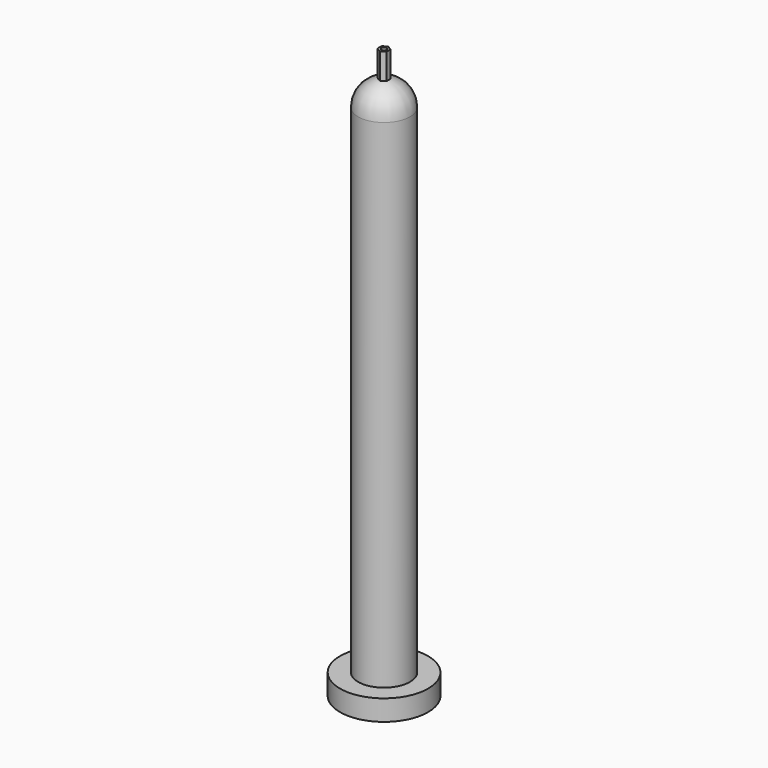
from build123d import *

# Parameters (mm, degrees)
F0_R      = 8.5
F1_DEPTH  = 4
F2_R      = 5
F3_DEPTH  = 100
F9_DEPTH  = 5
F10_R     = 0.5
F11_DEPTH = 117.5


with BuildPart() as f1:
    # F0 (on Top) → F1 (new body)
    with BuildSketch(Plane.XY):
        Circle(F0_R)
    extrude(amount=F1_DEPTH)

    # F2 (on Top) → F3 (join)
    with BuildSketch(Plane.XY):
        Circle(F2_R)
    extrude(amount=F3_DEPTH)

    # F4 (on Right) → F6 (revolve)
    with BuildSketch(Plane.YZ):
        with BuildLine():
            Line((0, 104.898979), (0, 100))
            Line((0, 100), (5, 100))
            ThreePointArc((5, 100), (3.872983, 103.162278), (1, 104.898979))
            Line((1, 104.898979), (0, 104.898979))
        make_face()
    revolve(axis=Axis((0, 0, 102.5), (0, 0, -1)))

    # F8 (on face) → F9 (join)
    with BuildSketch(Plane(origin=(0, 0, 104.898979), x_dir=(1, 0, 0), z_dir=(0, 0, -1))):
        Polygon((0.866025, -0.5), (0.866025, 0.5), (0, 1), (-0.866025, 0.5), (-0.866025, -0.5), (0, -1), align=None)
    extrude(amount=-F9_DEPTH)

    # F10 (on face) → F11 (cut)
    with BuildSketch(Plane(origin=(0, 0, 0), x_dir=(1, 0, 0), z_dir=(0, 0, -1))):
        Circle(F10_R)
    extrude(amount=-F11_DEPTH, mode=Mode.SUBTRACT)


solid = f1.part
